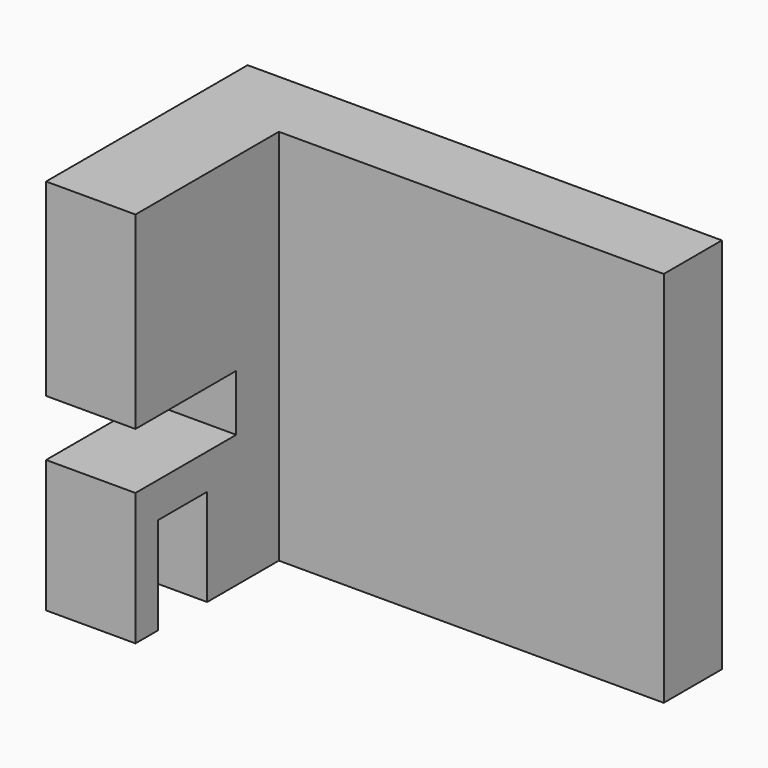
from build123d import *

# Parameters (mm, degrees)
F0_W     = 95.6405811012
F0_H     = 76.1410463601
F1_DEPTH = 50.8
F2_W     = 77.6151698083
F2_H     = 36.1386422619
F3_DEPTH = 76.1420463601
F4_W     = 18.0254112929
F4_H     = 11.3621493801
F5_DEPTH = 25.4
F6_W     = 12.4197352402
F6_H     = 19.5738971233
F7_DEPTH = 25.4


with BuildPart() as f1:
    # F0 (on Front) → F1 (new body)
    with BuildSketch(Plane.XZ):
        with Locations((3.5594385117, -15.0115480646)):
            Rectangle(F0_W, F0_H)
    extrude(amount=F1_DEPTH)

    # F2 (on face) → F3 (cut, through all)
    with BuildSketch(Plane.XY.offset(23.0589751154)):
        with Locations((12.5721441582, -32.730678869)):
            Rectangle(F2_W, F2_H)
    extrude(amount=-F3_DEPTH, mode=Mode.SUBTRACT)

    # F4 (on face) → F5 (cut)
    with BuildSketch(Plane.XZ.offset(50.8)):
        with Locations((-35.2481463924, -20.6926227547)):
            Rectangle(F4_W, F4_H)
    extrude(amount=-F5_DEPTH, mode=Mode.SUBTRACT)

    # F6 (on face) → F7 (cut)
    with BuildSketch(Plane.YZ.offset(-26.2354407459)):
        with Locations((-38.9405464891, -43.295122683)):
            Rectangle(F6_W, F6_H)
    extrude(amount=-F7_DEPTH, mode=Mode.SUBTRACT)


solid = f1.part
